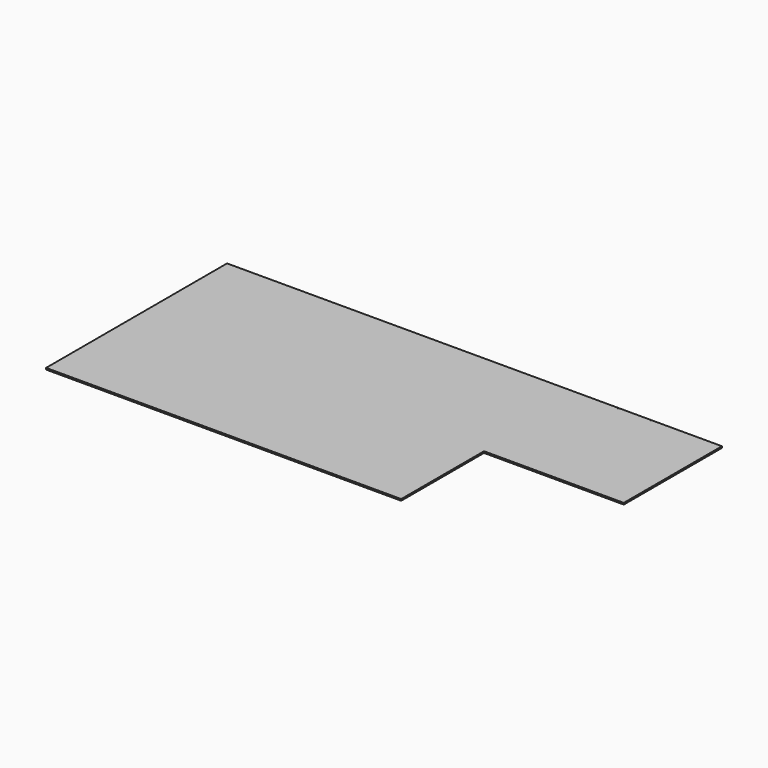
from build123d import *

# Parameters (mm, degrees)
F1_DEPTH = 3
F2_DEPTH = 25


with BuildPart() as f1:
    # F0 (on Top) → F1 (new body)
    with BuildSketch(Plane.XY):
        Polygon((201.401917, 185.517609), (-491.098083, 185.517609), (-491.098083, -251.482391), (194.901917, -251.482391), (194.901917, -51.482391), (464.901917, -51.482391), (464.901917, 185.517609), (328.401917, 185.517609), (264.901917, 185.517609), align=None)
        with BuildLine():
            ThreePointArc((264.901917, 184.017609), (264.401917, 184.517609), (264.901917, 185.017609))
            ThreePointArc((264.901917, 185.017609), (265.25547, 184.871162), (265.401917, 184.517609))
            ThreePointArc((265.401917, 184.517609), (265.25547, 184.164056), (264.901917, 184.017609))
        make_face(mode=Mode.SUBTRACT)
        with BuildLine():
            ThreePointArc((328.401917, 184.017609), (327.901917, 184.517609), (328.401917, 185.017609))
            ThreePointArc((328.401917, 185.017609), (328.75547, 184.871162), (328.901917, 184.517609))
            ThreePointArc((328.901917, 184.517609), (328.75547, 184.164056), (328.401917, 184.017609))
        make_face(mode=Mode.SUBTRACT)
    extrude(amount=F1_DEPTH)

    # F0 (on Top) → F2 (cut)
    with BuildSketch(Plane.XY):
        Polygon((201.401917, 185.517609), (-491.098083, 185.517609), (-491.098083, -251.482391), (194.901917, -251.482391), (194.901917, -51.482391), (464.901917, -51.482391), (464.901917, 185.517609), (328.401917, 185.517609), (264.901917, 185.517609), align=None)
        with BuildLine():
            ThreePointArc((264.901917, 184.017609), (264.401917, 184.517609), (264.901917, 185.017609))
            ThreePointArc((264.901917, 185.017609), (265.25547, 184.871162), (265.401917, 184.517609))
            ThreePointArc((265.401917, 184.517609), (265.25547, 184.164056), (264.901917, 184.017609))
        make_face(mode=Mode.SUBTRACT)
        with BuildLine():
            ThreePointArc((328.401917, 184.017609), (327.901917, 184.517609), (328.401917, 185.017609))
            ThreePointArc((328.401917, 185.017609), (328.75547, 184.871162), (328.901917, 184.517609))
            ThreePointArc((328.901917, 184.517609), (328.75547, 184.164056), (328.401917, 184.017609))
        make_face(mode=Mode.SUBTRACT)
    extrude(amount=-F2_DEPTH, mode=Mode.SUBTRACT)


solid = f1.part
